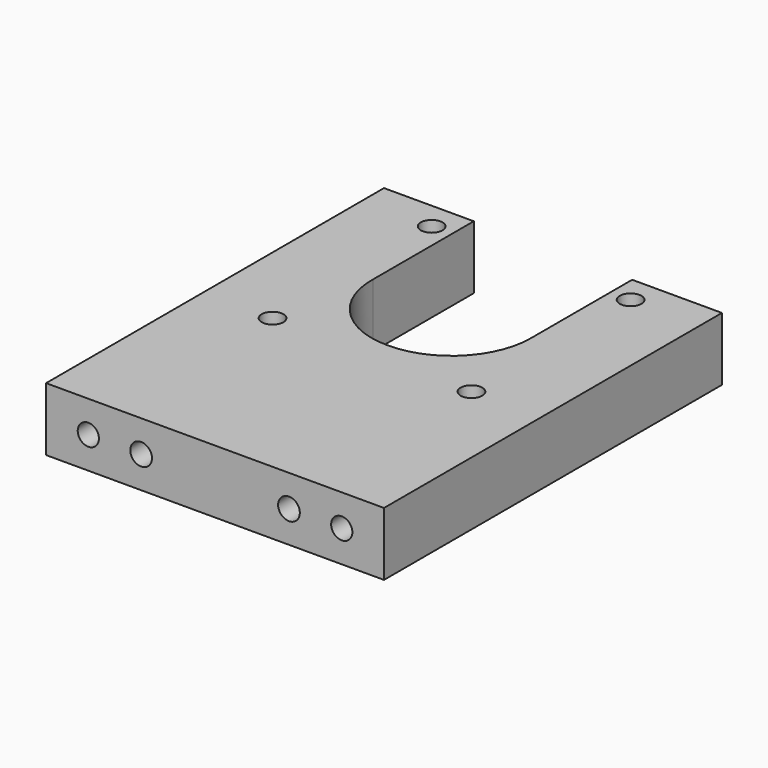
from build123d import *

# Parameters (mm, degrees)
F0_W      = 101.6
F0_H      = 152.4
F1_DEPTH  = 19.05
F3_D      = 6.5278
F2_R      = 23.8125
F4_DEPTH  = 19.051
F6_DEPTH  = 19.051
F7_W      = 101.6
F7_H      = 25.4
F8_DEPTH  = 19.051
F10_D     = 6.3754
F10_DEPTH = 16.9418
F10_TIP   = 1.9153633953
F11_D     = 6.5278
F11_DEPTH = 28.3633333333
F11_TIP   = 1.9611489744


with BuildPart() as f1:
    # F0 (on Top) → F1 (new body)
    with BuildSketch(Plane.XY):
        with Locations((0, 12.7)):
            Rectangle(F0_W, F0_H)
    extrude(amount=F1_DEPTH)

    # F3 (through all)
    with Locations(Plane.XY.offset(19.05)):
        with Locations((-29.9042528832, 55.3042528832), (29.9042528832, 55.3042528832), (29.9042528832, -4.5042528832), (-29.9042528832, -4.5042528832)):
            Hole(F3_D / 2)

    # F2 (on face) → F4 (cut, through all)
    with BuildSketch(Plane.XY.offset(19.05)):
        with Locations((0, 25.4)):
            Circle(F2_R)
    extrude(amount=-F4_DEPTH, mode=Mode.SUBTRACT)

    # F5 (on face) → F6 (cut, through all)
    with BuildSketch(Plane.XY.offset(19.05)):
        with BuildLine():
            Line((-23.8106845457, 88.9), (-23.8106845457, 25.6940369276))
            ThreePointArc((-23.8106845457, 25.6940369276), (-17.0245539834, 8.5843833211), (0, 1.5875))
            ThreePointArc((0, 1.5875), (16.8536210319, 8.7422088532), (23.81087373, 25.6782956372))
            Line((23.81087373, 25.6782956372), (23.81087373, 88.9))
            Line((23.81087373, 88.9), (-23.8106845457, 88.9))
        make_face()
    extrude(amount=-F6_DEPTH, mode=Mode.SUBTRACT)

    # F7 (on face) → F8 (cut, through all)
    with BuildSketch(Plane.XY.offset(19.05)):
        with Locations((0, 76.2)):
            Rectangle(F7_W, F7_H)
    extrude(amount=-F8_DEPTH, mode=Mode.SUBTRACT)

    # F10
    with Locations(Plane.XZ.offset(63.5)):
        with Locations((-38.1, 9.525), (38.1, 9.525)):
            Hole(F10_D / 2, depth=F10_DEPTH)
            with Locations((0, 0, -(F10_DEPTH + F10_TIP / 2))):  # 118° drill point
                Cone(0, F10_D / 2, F10_TIP, mode=Mode.SUBTRACT)

    # F11
    with Locations(Plane.XZ.offset(63.5)):
        with Locations((-22.225, 9.525), (22.225, 9.525)):
            Hole(F11_D / 2, depth=F11_DEPTH)
            with Locations((0, 0, -(F11_DEPTH + F11_TIP / 2))):  # 118° drill point
                Cone(0, F11_D / 2, F11_TIP, mode=Mode.SUBTRACT)


solid = f1.part
